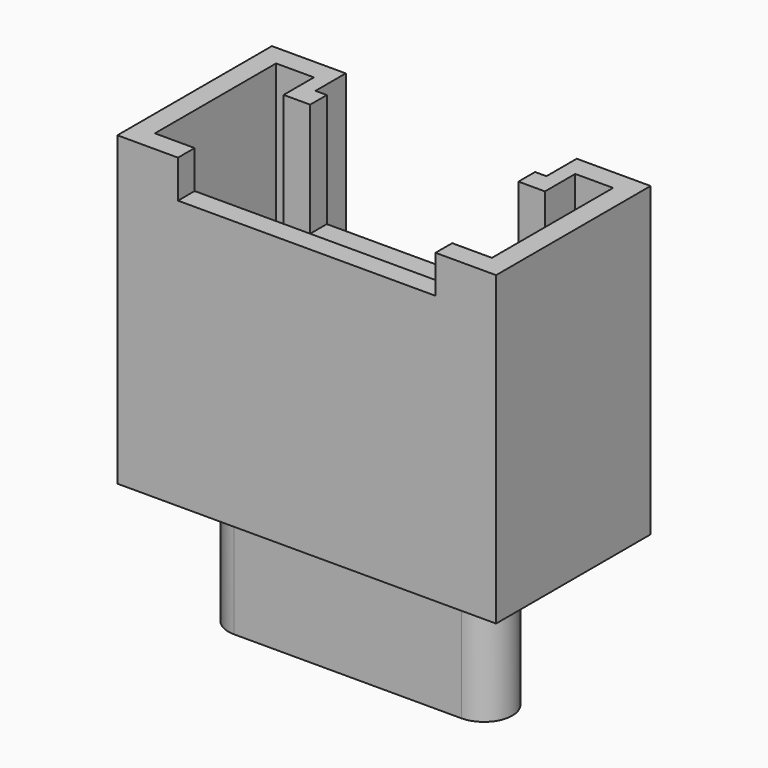
from build123d import *

# Parameters (mm, degrees)
PAD005_DEPTH            = 8.1
POCKET003_DEPTH         = 7
SKETCH010_W             = 6.8
SKETCH010_H             = 5
POCKET004_DEPTH         = 1
SKETCH011_W             = 5.5
SKETCH011_H             = 3
POCKET005_DEPTH         = 3
PAD006_DEPTH            = 4
PAD014_DEPTH            = 3.4
BODY005_PLACEMENT_ANGLE = 180


with BuildPart() as part:
    # Sketch008 → Pad005 (new body)
    with BuildSketch(Plane.XY):
        Polygon((-5, 0), (-3.05, 0), (-3.05, 1), (3.05, 1), (3.05, 0), (5, 0), (5, 5.1), (-5, 5.1), align=None)
    extrude(amount=PAD005_DEPTH)

    # Sketch009 (on Face10 of Pad005) → Pocket003 (cut)
    with BuildSketch(Plane.XY.offset(8.1)):
        Polygon((-4.45, 0.55), (-3.45, 0.55), (-3.45, 1.55), (3.45, 1.55), (3.45, 0.55), (4.45, 0.55), (4.45, 4.55), (-4.45, 4.55), align=None)
    extrude(amount=-POCKET003_DEPTH, mode=Mode.SUBTRACT)

    # Sketch010 (on Face5 of Pocket003) → Pocket004 (cut)
    with BuildSketch(Plane.XY.offset(8.1)):
        with Locations((0, 5.5)):
            Rectangle(SKETCH010_W, SKETCH010_H)
    extrude(amount=-POCKET004_DEPTH, mode=Mode.SUBTRACT)

    # Sketch011 (on Face5 of Pocket004) → Pocket005 (cut)
    with BuildSketch(Plane.XY.offset(8.1)):
        with Locations((0, 1.5)):
            Rectangle(SKETCH011_W, SKETCH011_H)
    extrude(amount=-POCKET005_DEPTH, mode=Mode.SUBTRACT)

    # Sketch012 (on Face26 of Pocket005) → Pad006 (join)
    with BuildSketch(Plane.XY.offset(1.1)):
        with BuildLine():
            ThreePointArc((-3.4, 3.25), (-3.65, 3), (-3.4, 2.75))
            Line((-3.4, 2.75), (3.4, 2.75))
            ThreePointArc((3.4, 2.75), (3.65, 3), (3.4, 3.25))
            Line((-3.4, 3.25), (3.4, 3.25))
        make_face()
    extrude(amount=PAD006_DEPTH)

    # Sketch020 (on Face4 of Pad006) → Pad014 (join)
    with BuildSketch(Plane(origin=(0, 0, 0), x_dir=(1, 0, 0), z_dir=(0, 0, -1))):
        with BuildLine():
            ThreePointArc((-3, -2.25), (-3.75, -3), (-3, -3.75))
            Line((-3, -3.75), (3, -3.75))
            ThreePointArc((3, -3.75), (3.75, -3), (3, -2.25))
            Line((-3, -2.25), (3, -2.25))
        make_face()
    extrude(amount=PAD014_DEPTH)


with BuildPart() as part_1:
    # Body005 placement: moved
    add(part.part.moved(Location((-7, 29, 0))).rotate(Axis((-7, 29, 0), (0, 0, 1)), BODY005_PLACEMENT_ANGLE))


with BuildPart() as part_2:
    # Body010 placement: moved
    add(part_1.part.moved(Location((14, 18, 0))))


solid = part_2.part
